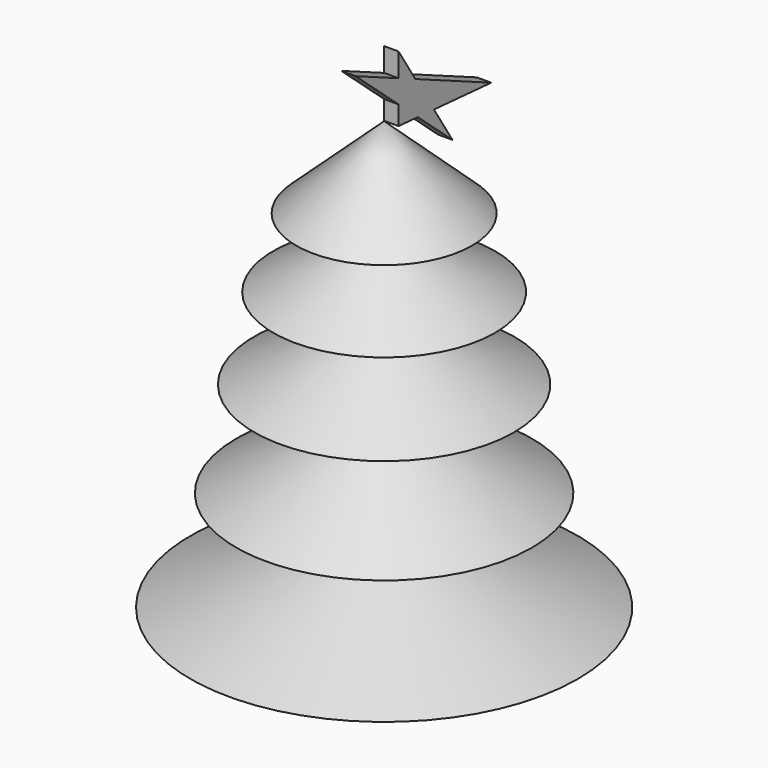
from build123d import *

# Parameters (mm, degrees)
F3_DEPTH = 5.08


with BuildPart() as f1:
    # F0 (on Front) → F1 (revolve)
    with BuildSketch(Plane.XZ):
        Polygon((31.0193225741, 47.3761707544), (0, 75.9893655777), (0, -75.5896419287), (68.3835148811, -75.0798285007), (13.7472031638, -50.3153465688), (52.1688722074, -39.5764559507), (9.1648055241, -13.2164992392), (45.8240024745, -5.806340836), (9.5172934234, 14.7321484983), (39.1266532242, 22.9271389544), (8.4598176181, 41.9212840497), align=None)
    revolve(axis=Axis((0, 0, 0.1998618245), (0, 0, -1)))


with BuildPart() as f3:
    # F2 (on Right) → F3 (new body)
    with BuildSketch(Plane.YZ):
        Polygon((0, 82.8383528268), (0, 76.0911256075), (8.5020121268, 75.439835778), align=None)
        Polygon((-18.926570192, 99.3084013462), (0, 82.8383528268), (0, 90.9729348781), align=None)
        Polygon((0, 90.9729348781), (0, 82.8383528268), (8.5020121268, 75.439835778), (15.6312974104, 74.8937025889), (7.4324240626, 87.6996148353), align=None)
        Polygon((15.6312974104, 74.8937025889), (8.5020121268, 75.439835778), (23.810852319, 62.1179640293), align=None)
        Polygon((0, 99.3084013462), (0, 90.9729348781), (7.4324240626, 87.6996148353), align=None)
        Polygon((7.4324240626, 87.6996148353), (15.6312974104, 74.8937025889), (40.9058220685, 72.9575678706), align=None)
    extrude(amount=F3_DEPTH)


solid = Compound([f1.part, f3.part])
